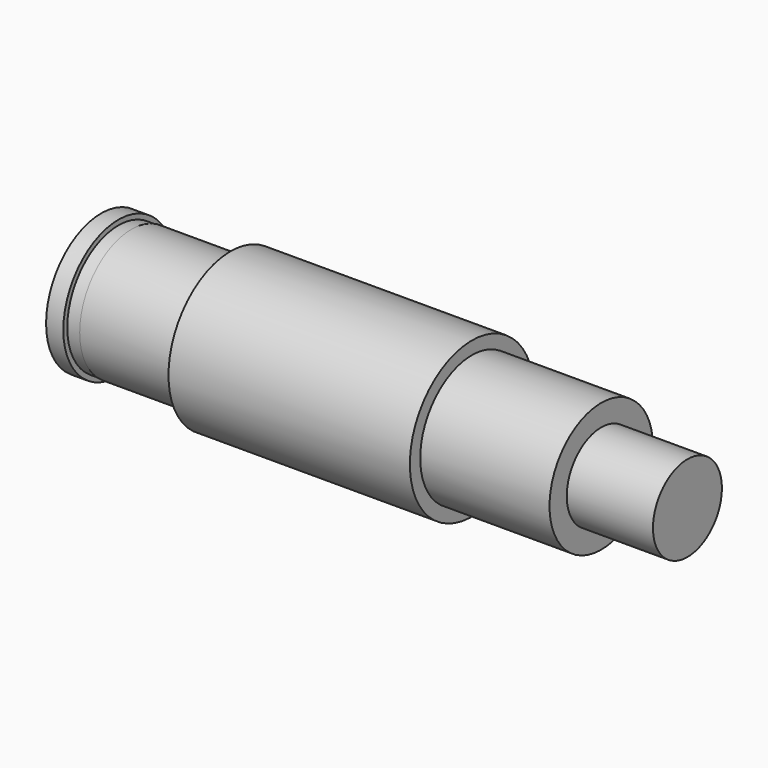
from build123d import *

# Parameters (mm, degrees)
F0_R      = 9
F1_DEPTH  = 14
F2_R      = 7.5
F3_DEPTH  = 15
F4_R      = 5
F5_DEPTH  = 10
F6_R      = 7.5
F7_DEPTH  = 11.5
F8_R      = 7.425
F9_DEPTH  = 1.5
F10_R     = 8
F11_DEPTH = 2
F13_DEPTH = 13.5


with BuildPart() as f1:
    # F0 (on Right) → F1 (new body, symmetric)
    with BuildSketch(Plane.YZ):
        Circle(F0_R)
    extrude(amount=F1_DEPTH, both=True)

    # F2 (on face) → F3 (join)
    with BuildSketch(Plane.YZ.offset(14)):
        Circle(F2_R)
    extrude(amount=F3_DEPTH)

    # F4 (on face) → F5 (join)
    with BuildSketch(Plane.YZ.offset(29)):
        Circle(F4_R)
    extrude(amount=F5_DEPTH)

    # F6 (on face) → F7 (join)
    with BuildSketch(Plane(origin=(-14, 0, 0), x_dir=(0, -1, 0), z_dir=(-1, 0, 0))):
        Circle(F6_R)
    extrude(amount=F7_DEPTH)

    # F8 (on face) → F9 (join)
    with BuildSketch(Plane(origin=(-25.5, 0, 0), x_dir=(0, -1, 0), z_dir=(-1, 0, 0))):
        Circle(F8_R)
    extrude(amount=F9_DEPTH)

    # F10 (on face) → F11 (join)
    with BuildSketch(Plane(origin=(-27, 0, 0), x_dir=(0, -1, 0), z_dir=(-1, 0, 0))):
        Circle(F10_R)
    extrude(amount=F11_DEPTH)

    # F12 (on face) → F13 (cut)
    with BuildSketch(Plane(origin=(-29, 0, 0), x_dir=(0, -1, 0), z_dir=(-1, 0, 0))):
        with BuildLine():
            Line((-7.8581168228, -1.5), (-4.8581168228, -1.5))
            Line((-4.8581168228, -1.5), (-4.8581168228, 1.5))
            Line((-4.8581168228, 1.5), (-7.8581168228, 1.5))
            add(Edge.make_bspline(
                [(-7.8581168228, 1.5), (-8.0546390686, 1), (-8.4476835604, 0), (-8.0546390686, -1), (-7.8581168228, -1.5)],
                knots=[0, 0, 0, 0, 0.5, 1, 1, 1, 1], degree=3))
        make_face()
    extrude(amount=-F13_DEPTH, mode=Mode.SUBTRACT)


solid = f1.part
